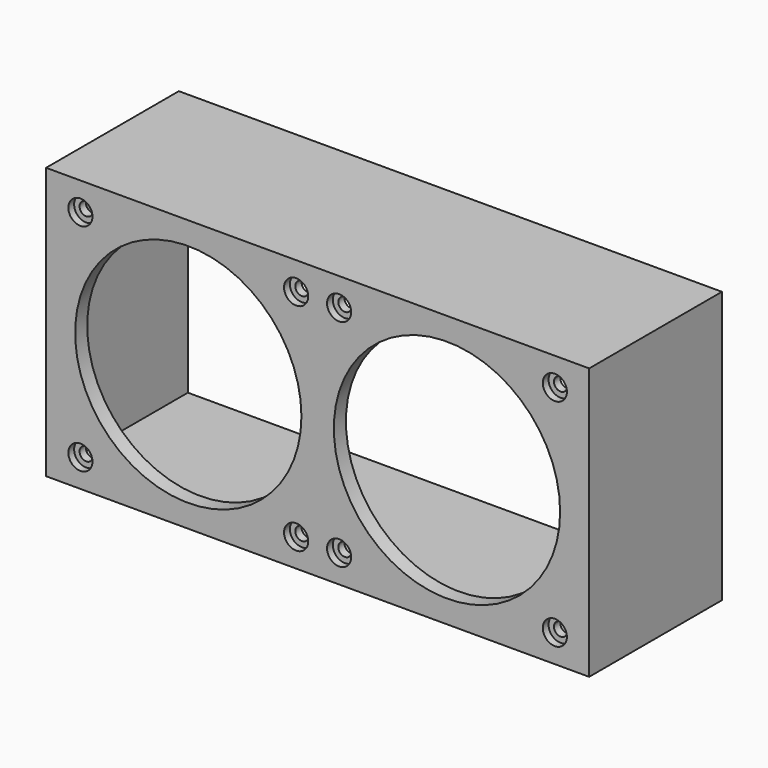
from build123d import *

# Parameters (mm, degrees)
SKETCH_W         = 180
SKETCH_H         = 90
PAD_DEPTH        = 5
SKETCH001_R      = 37.5
POCKET_DEPTH     = 5
HOLE_D           = 4.4
HOLE_DEPTH       = 25
HOLE_CBORE_D     = 8
HOLE_CBORE_DEPTH = 2.4
SKETCH003_W      = 180
SKETCH003_H      = 90
SKETCH003_W_2    = 174
SKETCH003_H_2    = 84
PAD001_DEPTH     = 50


with BuildPart() as part:
    # Sketch → Pad (new body)
    with BuildSketch(Plane.XZ):
        Rectangle(SKETCH_W, SKETCH_H)
    extrude(amount=PAD_DEPTH)

    # Sketch001 (on Face6 of Pad) → Pocket (cut)
    with BuildSketch(Plane.XZ.offset(5)):
        with Locations((-42.872203, 0)):
            Circle(SKETCH001_R)
        with Locations((42.872203, 0)):
            Circle(SKETCH001_R)
    extrude(amount=-POCKET_DEPTH, mode=Mode.SUBTRACT)

    # Hole
    with Locations(Plane.XZ.offset(5)):
        with Locations((-78.622203, 35.75), (-7.122203, 35.75), (-78.622203, -35.75), (-7.122203, -35.75), (7.122203, 35.75), (78.622203, 35.75), (78.622203, -35.75), (7.122203, -35.75)):
            CounterBoreHole(HOLE_D / 2, HOLE_CBORE_D / 2, HOLE_CBORE_DEPTH, depth=HOLE_DEPTH)

    # Sketch003 (on Face5 of Pad) → Pad001 (join)
    with BuildSketch(Plane(origin=(0, 0, 0), x_dir=(1, 0, 0), z_dir=(0, 1, 0))):
        Rectangle(SKETCH003_W, SKETCH003_H)
        Rectangle(SKETCH003_W_2, SKETCH003_H_2, mode=Mode.SUBTRACT)
    extrude(amount=PAD001_DEPTH)


solid = part.part
